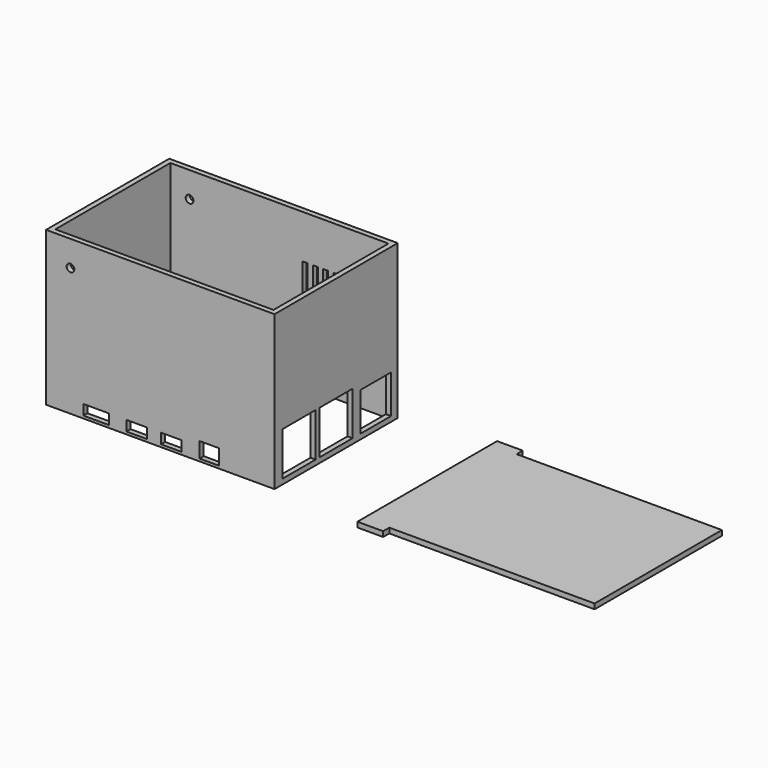
from build123d import *

# Parameters (mm, degrees)
SKETCH_W        = 89
SKETCH_H        = 60
SKETCH_W_2      = 85
SKETCH_H_2      = 56
PAD_DEPTH       = 60
SKETCH001_R     = 1.5
SKETCH001_W     = 10
SKETCH001_H     = 4
SKETCH001_W_2   = 8
SKETCH001_W_3   = 7.5
SKETCH001_H_2   = 6
POCKET_DEPTH    = 5
SKETCH002_W     = 16
SKETCH002_H     = 17
SKETCH002_W_2   = 15
SKETCH002_H_2   = 15
POCKET001_DEPTH = 5
SKETCH003_R     = 1.5
SKETCH003_W     = 2
SKETCH003_H     = 22
POCKET002_DEPTH = 5
SKETCH004_W     = 90
SKETCH004_H     = 62
SKETCH004_W_2   = 10
SKETCH004_H_2   = 3
PAD001_DEPTH    = 2


with BuildPart() as obj1:
    # Sketch → Pad (new body)
    with BuildSketch(Plane.XY):
        Rectangle(SKETCH_W, SKETCH_H)
        Rectangle(SKETCH_W_2, SKETCH_H_2, mode=Mode.SUBTRACT)
    extrude(amount=PAD_DEPTH)

    # Sketch001 (on Face3 of Pad) → Pocket (cut)
    with BuildSketch(Plane.XZ.offset(30)):
        with Locations((-35, 50)):
            Circle(SKETCH001_R)
        with Locations((-25, 3)):
            Rectangle(SKETCH001_W, SKETCH001_H)
        with Locations((-9.2, 3)):
            Rectangle(SKETCH001_W_2, SKETCH001_H)
        with Locations((4.3, 3)):
            Rectangle(SKETCH001_W_2, SKETCH001_H)
        with Locations((19.05, 4)):
            Rectangle(SKETCH001_W_3, SKETCH001_H_2)
    extrude(amount=-POCKET_DEPTH, mode=Mode.SUBTRACT)

    # Sketch002 (on Face3 of Pocket) → Pocket001 (cut)
    with BuildSketch(Plane.YZ.offset(44.5)):
        with Locations((-18, 10.5)):
            Rectangle(SKETCH002_W, SKETCH002_H)
        with Locations((0, 10.5)):
            Rectangle(SKETCH002_W, SKETCH002_H)
        with Locations((19.25, 9.5)):
            Rectangle(SKETCH002_W_2, SKETCH002_H_2)
    extrude(amount=-POCKET001_DEPTH, mode=Mode.SUBTRACT)

    # Sketch003 (on Face1 of Pocket001) → Pocket002 (cut)
    with BuildSketch(Plane(origin=(0, 30, 0), x_dir=(-1, 0, 0), z_dir=(0, 1, 0))):
        with Locations((35, 50)):
            Circle(SKETCH003_R)
        with Locations((-30, 32)):
            Rectangle(SKETCH003_W, SKETCH003_H)
        with Locations((-26, 32)):
            Rectangle(SKETCH003_W, SKETCH003_H)
        with Locations((-22, 32)):
            Rectangle(SKETCH003_W, SKETCH003_H)
        with Locations((-18, 32)):
            Rectangle(SKETCH003_W, SKETCH003_H)
        with Locations((-14, 32)):
            Rectangle(SKETCH003_W, SKETCH003_H)
        with Locations((-10, 32)):
            Rectangle(SKETCH003_W, SKETCH003_H)
    extrude(amount=-POCKET002_DEPTH, mode=Mode.SUBTRACT)


with BuildPart() as lid:
    # Sketch004 → Pad001 (new body)
    with BuildSketch(Plane.XY):
        with Locations((125, 0)):
            Rectangle(SKETCH004_W, SKETCH004_H)
        with Locations((85, 32.5)):
            Rectangle(SKETCH004_W_2, SKETCH004_H_2)
        with Locations((85, -32.5)):
            Rectangle(SKETCH004_W_2, SKETCH004_H_2)
    extrude(amount=PAD001_DEPTH)


solid = Compound([obj1.part, lid.part])
